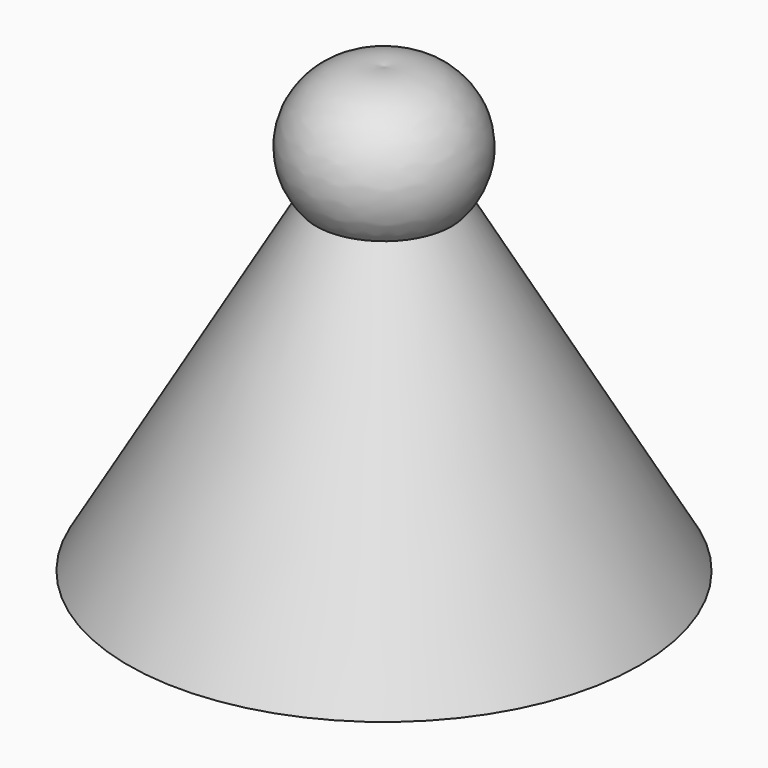
from build123d import *

# Parameters (mm, degrees)
BODY_PLACEMENT_ANGLE = 90


with BuildPart() as part:
    # Sketch → Revolution (revolve)
    with BuildSketch(Plane.XY):
        with BuildLine():
            Line((0, 0), (28.5, 0))
            Line((28.5, 0), (7.57, 36.251823))
            ThreePointArc((7.57, 36.251823), (8.56517, 45.589724), (0, 49.44))
            Line((0, 49.44), (0, 0))
        make_face()
    revolve(axis=Axis((0, 0, 0), (0, 1, 0)))


with BuildPart() as part_1:
    # Body placement: moved
    add(part.part.rotate(Axis((0, 0, 0), (1, 0, 0)), BODY_PLACEMENT_ANGLE))


solid = part_1.part
